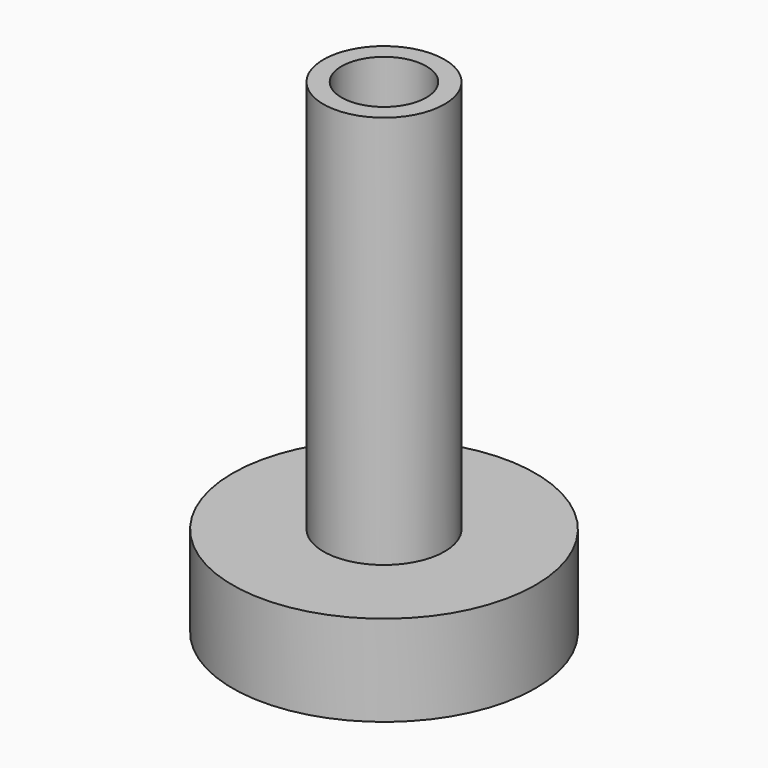
from build123d import *

# Parameters (mm, degrees)
CYLINDER034_R     = 2.1
CYLINDER034_DEPTH = 33.5
CYLINDER033_R     = 3
CYLINDER033_DEPTH = 19.5
CYLINDER035_R     = 7.5
CYLINDER035_DEPTH = 4.5


with BuildPart() as cylinder034:
    # Cylinder034 → Cylinder034 (new body)
    with BuildSketch(Plane.XY.offset(-4.6)):
        Circle(CYLINDER034_R)
    extrude(amount=CYLINDER034_DEPTH)


with BuildPart() as cylinder033:
    # Cylinder033 → Cylinder033 (new body)
    with BuildSketch(Plane.XY.offset(4.5)):
        Circle(CYLINDER033_R)
    extrude(amount=CYLINDER033_DEPTH)


with BuildPart() as cut027:
    # Cylinder035 → Cylinder035 (new body)
    with BuildSketch(Plane.XY):
        Circle(CYLINDER035_R)
    extrude(amount=CYLINDER035_DEPTH)

    # Fusion007: union Cylinder033
    add(cylinder033.part)

    # Cut027: cut Cylinder034
    add(cylinder034.part, mode=Mode.SUBTRACT)


solid = cut027.part
